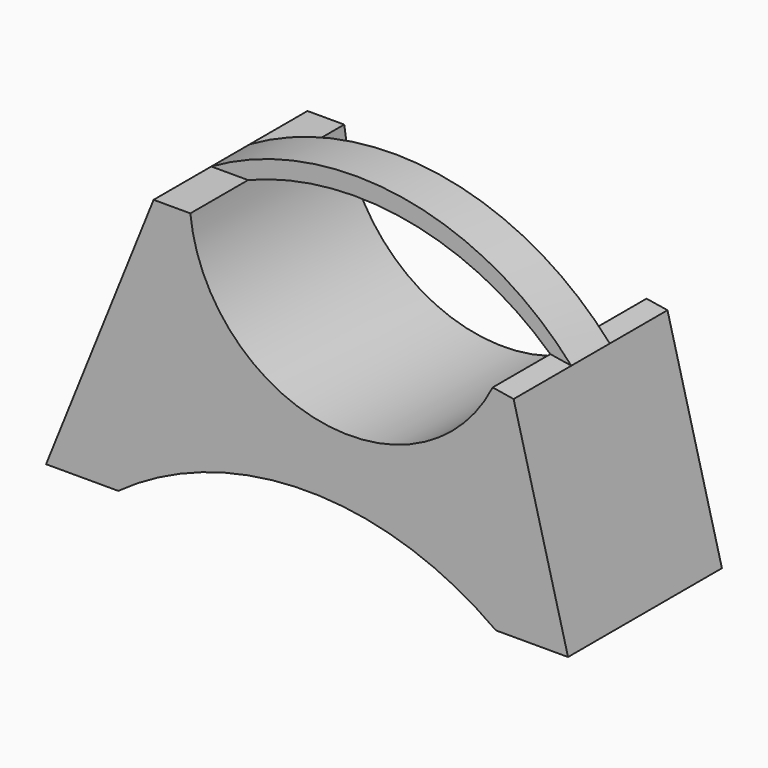
from build123d import *

# Parameters (mm, degrees)
F1_DEPTH      = 12.7
F1_DEPTH_BACK = 12.7
F3_DEPTH      = 50.8
F3_DEPTH_BACK = 50.8


with BuildPart() as f1:
    # F0 (on Front) → F1 (new body, two sides)
    with BuildSketch(Plane.XZ) as f1_sk:
        with BuildLine():
            ThreePointArc((113.964987, 110.625142), (24.366307, 159.882915), (-76.2, 141.425687))
            Line((-76.2, 141.425687), (-56.78499, 141.425687))
            ThreePointArc((-56.78499, 141.425687), (27.239214, 149.945941), (102.898219, 112.417598))
            Line((102.898219, 112.417598), (113.964987, 110.625142))
        make_face()
    extrude(amount=F1_DEPTH)
    extrude(f1_sk.sketch, amount=-F1_DEPTH_BACK)

    # F2 (on Front) → F3 (join, two sides)
    with BuildSketch(Plane.XZ) as f3_sk:
        with BuildLine():
            Line((113.964987, 110.625142), (102.898219, 112.417598))
            ThreePointArc((102.898219, 112.417598), (12.144134, 66.850814), (-56.78499, 141.425687))
            Line((-56.78499, 141.425687), (-76.2, 141.425687))
            Line((-76.2, 141.425687), (-132.98499, 0))
            Line((-132.98499, 0), (-94.88499, 0))
            ThreePointArc((-94.88499, 0), (4.865045, 32.416786), (104.615081, 0))
            Line((104.615081, 0), (142.715081, 0))
            Line((142.715081, 0), (113.964987, 110.625142))
        make_face()
    extrude(amount=F3_DEPTH)
    extrude(f3_sk.sketch, amount=-F3_DEPTH_BACK)


solid = f1.part
